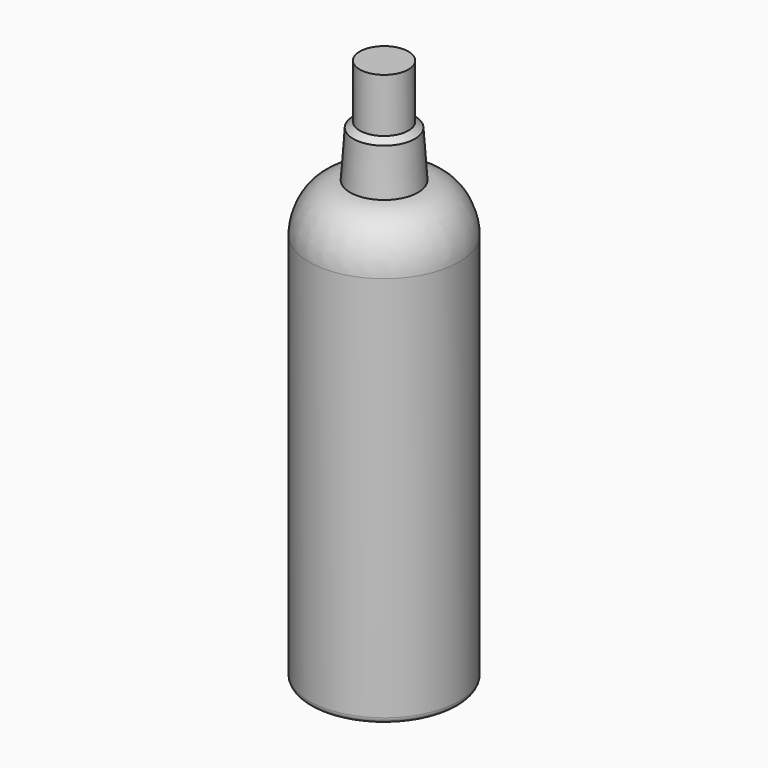
from build123d import *

# Parameters (mm, degrees)
F2_R = 1.689949


with BuildPart() as f1:
    # F0 (on Front) → F1 (revolve)
    with BuildSketch(Plane.XZ):
        with BuildLine():
            Line((0, 155.15795), (0, 0))
            Line((0, 0), (21.245236, 0))
            Line((21.245236, 0), (21.245236, 111.590803))
            add(Edge.make_bspline(
                [(9.651899, 125.256434), (17.312195, 124.996513), (21.097237, 117.58092), (21.245236, 111.590803)],
                knots=[0, 0, 0, 0, 17.920796, 17.920796, 17.920796, 17.920796], degree=3))
            Line((9.651899, 125.256434), (8.74252, 138.377488))
            Line((8.74252, 138.377488), (6.929204, 139.859629))
            Line((6.929204, 139.859629), (6.929204, 155.15795))
            Line((6.929204, 155.15795), (0, 155.15795))
        make_face()
    revolve(axis=Axis((0, 0, 77.578975), (0, 0, -1)))

    # F2
    f2_edges = [f1.edges().sort_by_distance(p)[0] for p in [
        (-21.245236, 0, 0),
    ]]
    fillet(f2_edges, radius=F2_R)


solid = f1.part
